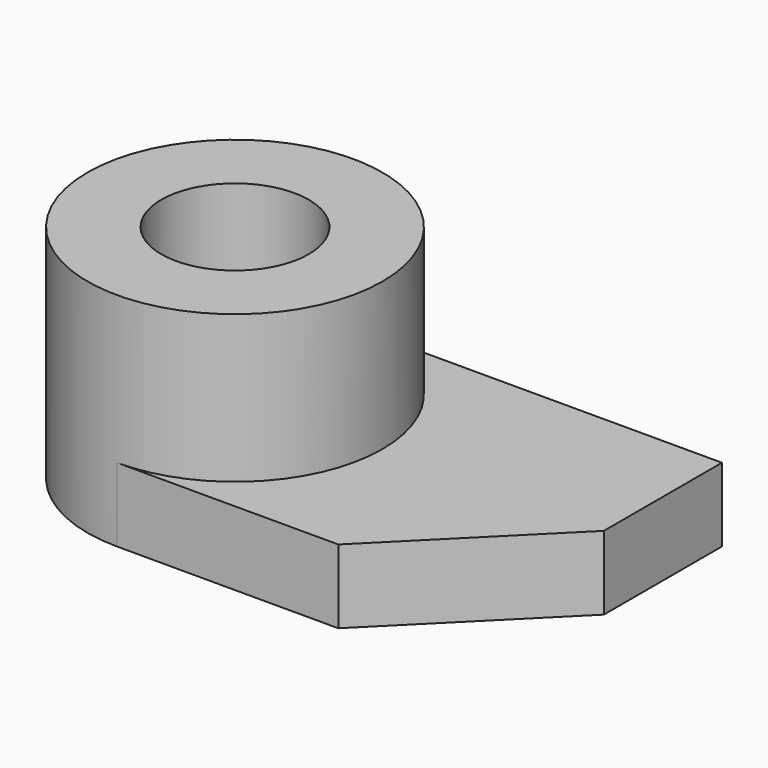
from build123d import *

# Parameters (mm, degrees)
F1_DEPTH = 6.35
F3_DEPTH = 6.35
F2_R     = 12.7
F4_DEPTH = 12.7
F5_R     = 6.35
F6_DEPTH = 19.05


with BuildPart() as f1:
    # F0 (on Top) → F1 (new body)
    with BuildSketch(Plane.XY):
        Polygon((0, 25.4), (0, 0), (19.05, 0), (31.75, 12.7), (31.75, 25.4), align=None)
    extrude(amount=-F1_DEPTH)

    # F2 (on face) → F3 (join)
    with BuildSketch(Plane.XY):
        with BuildLine():
            Line((0, 0), (0, 25.4))
            ThreePointArc((0, 25.4), (-12.7, 12.7), (0, 0))
        make_face()
    extrude(amount=-F3_DEPTH)

    # F2 (on face) → F4 (join)
    with BuildSketch(Plane.XY):
        with Locations((0, 12.7)):
            Circle(F2_R)
    extrude(amount=F4_DEPTH)

    # F5 (on face) → F6 (cut)
    with BuildSketch(Plane.XY.offset(12.7)):
        with Locations((0, 12.7)):
            Circle(F5_R)
    extrude(amount=-F6_DEPTH, mode=Mode.SUBTRACT)


solid = f1.part
